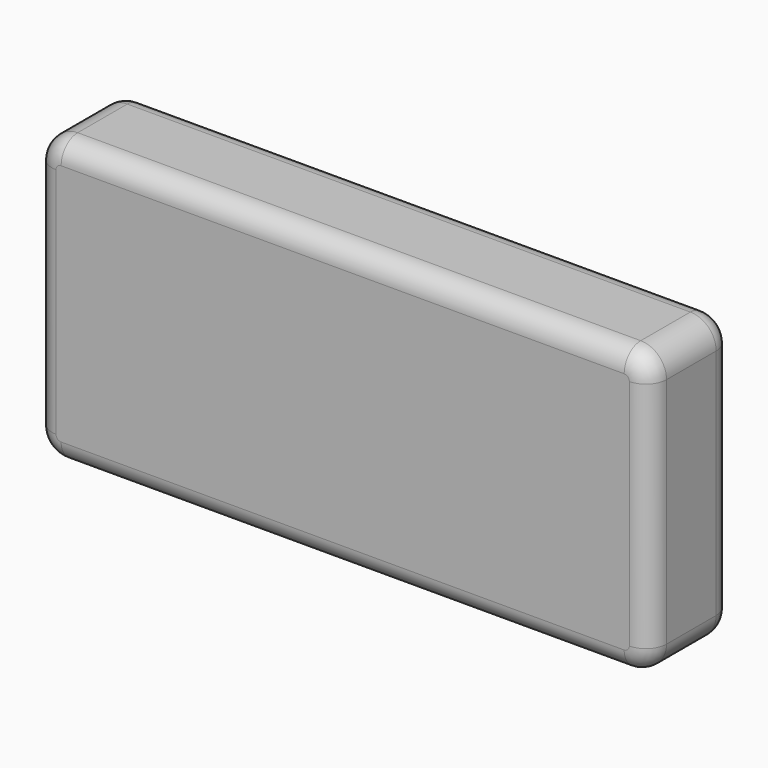
from build123d import *

# Parameters (mm, degrees)
F1_DEPTH = 25.4
F2_R     = 5.08


with BuildPart() as f1:
    # F0 (on Front) → F1 (new body)
    with BuildSketch(Plane.XZ):
        with BuildLine():
            Line((-144.719701, 0), (-6.35, 0))
            ThreePointArc((-6.35, 0), (-1.859872, 1.859872), (0, 6.35))
            Line((0, 6.35), (0, 63.575182))
            ThreePointArc((0, 63.575182), (-1.859872, 68.06531), (-6.35, 69.925182))
            Line((-6.35, 69.925182), (-144.719701, 69.925182))
            ThreePointArc((-144.719701, 69.925182), (-149.209829, 68.06531), (-151.069701, 63.575182))
            Line((-151.069701, 63.575182), (-151.069701, 6.35))
            ThreePointArc((-151.069701, 6.35), (-149.209829, 1.859872), (-144.719701, 0))
        make_face()
        with BuildLine():
            Line((-144.719701, 0), (-6.35, 0))
            ThreePointArc((-6.35, 0), (-1.859872, 1.859872), (0, 6.35))
            Line((0, 6.35), (0, 63.575182))
            ThreePointArc((0, 63.575182), (-1.859872, 68.06531), (-6.35, 69.925182))
            Line((-6.35, 69.925182), (-144.719701, 69.925182))
            ThreePointArc((-144.719701, 69.925182), (-149.209829, 68.06531), (-151.069701, 63.575182))
            Line((-151.069701, 63.575182), (-151.069701, 6.35))
            ThreePointArc((-151.069701, 6.35), (-149.209829, 1.859872), (-144.719701, 0))
        make_face()
    extrude(amount=F1_DEPTH)

    # F2
    f2_edges = [f1.edges().sort_by_distance(p)[0] for p in [
        (-151.069701, 0, 34.962591),
        (-151.069701, -25.4, 34.962591),
    ]]
    fillet(f2_edges, radius=F2_R)


solid = f1.part
